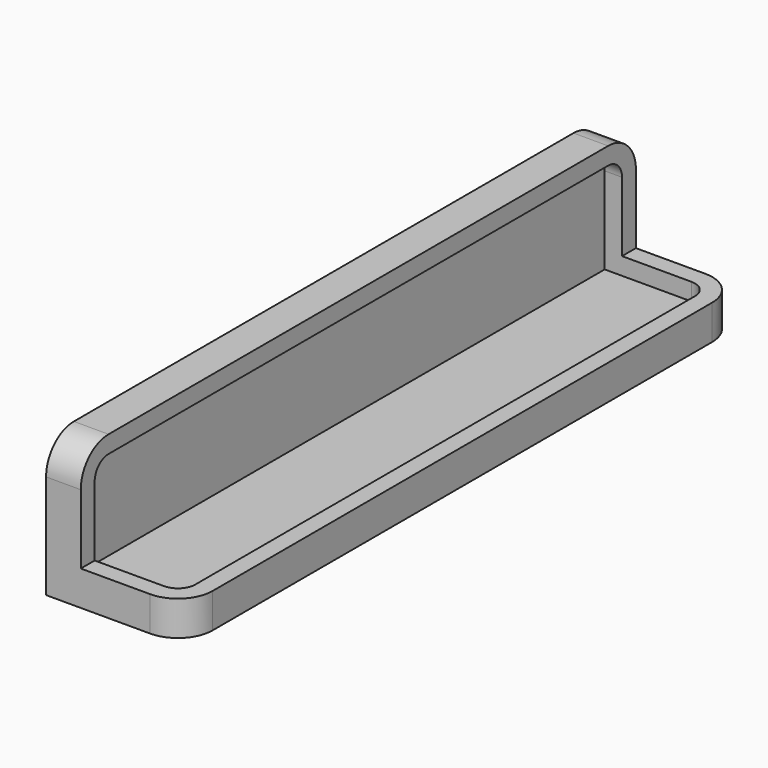
from build123d import *

# Parameters (mm, degrees)
F1_DEPTH = 50
F2_R     = 5
F3_T     = -2.5


with BuildPart() as f1:
    # F0 (on Front) → F1 (new body, symmetric)
    with BuildSketch(Plane.XZ):
        Polygon((0, 20), (0, 0), (20, 0), (20, 5), (5, 5), (5, 20), align=None)
    extrude(amount=F1_DEPTH, both=True)

    # F2
    f2_edges = [f1.edges().sort_by_distance(p)[0] for p in [
        (2.5, -50, 20),
        (2.5, 50, 20),
        (20, -50, 2.5),
        (20, 50, 2.5),
    ]]
    fillet(f2_edges, radius=F2_R)

    # F3
    f3_openings = [f1.faces().sort_by_distance(p)[0] for p in [
        (12.45401, 0, 5),
        (5, 0, 12.45401),
    ]]
    offset(amount=F3_T, openings=f3_openings)


solid = f1.part
